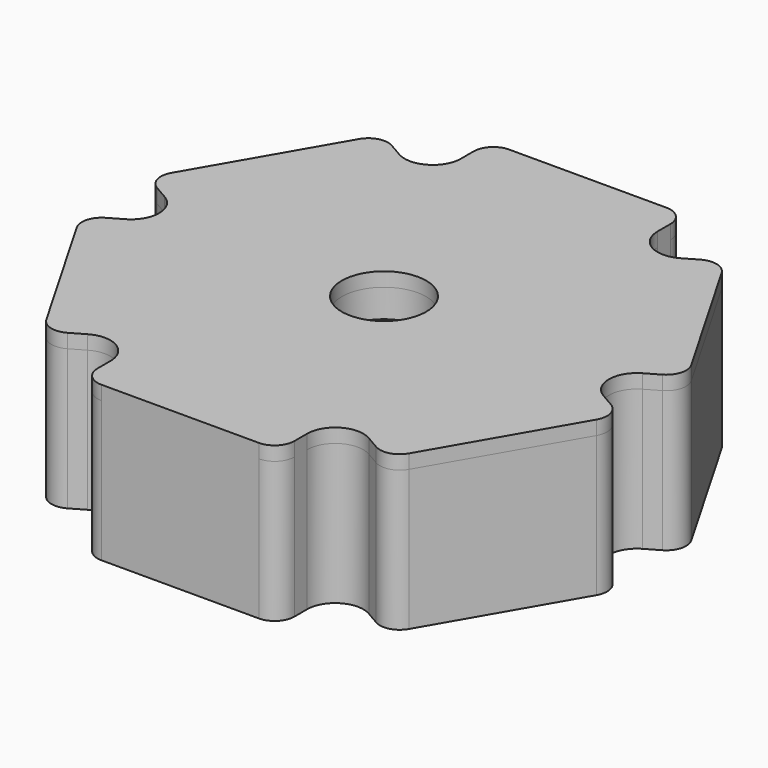
from build123d import *

# Parameters (mm, degrees)
PAD_DEPTH         = 5
POCKET_DEPTH      = 4
POCKET_FACE1_W    = 7
POCKET_FACE1_H    = 5
PAD001_DEPTH      = 3
PAD001_FACE6_W    = 7
PAD001_FACE6_H    = 5
PAD002_DEPTH      = 3
PAD002_FACE6_W    = 7
PAD002_FACE6_H    = 5
PAD003_DEPTH      = 3
PAD003_FACE1_W    = 7
PAD003_FACE1_H    = 5
PAD004_DEPTH      = 3
PAD004_FACE1_W    = 7
PAD004_FACE1_H    = 5
PAD005_DEPTH      = 3
PAD005_FACE1_W    = 7
PAD005_FACE1_H    = 5
PAD006_DEPTH      = 3
FILLET_R          = 1
FILLET001_R       = 0.7
SKETCH002_R       = 1.5
POCKET001_DEPTH   = 5
POCKET001_FACE5_R = 1.5
PAD007_DEPTH      = 0.5


with BuildPart() as part:
    # Sketch → Pad (new body)
    with BuildSketch(Plane.XY):
        Polygon((7, 0), (3.5, 6.0621778265), (-3.5, 6.0621778265), (-7, 0), (-3.5, -6.0621778265), (3.5, -6.0621778265), align=None)
    extrude(amount=PAD_DEPTH)

    # Sketch001 (on Face7 of Pad) → Pocket (cut)
    with BuildSketch(Plane(origin=(0, 0, 0), x_dir=(1, 0, 0), z_dir=(0, 0, -1))):
        Polygon((3.35, 0), (1.675, 2.9011851027), (-1.675, 2.9011851027), (-3.35, 0), (-1.675, -2.9011851027), (1.675, -2.9011851027), align=None)
    extrude(amount=-POCKET_DEPTH, mode=Mode.SUBTRACT)

    # Pocket Face1 → Pad001 (add)
    with BuildSketch(Plane(origin=(5.25, 3.0310889132, 2.5), x_dir=(0.5, -0.8660254038, 0), z_dir=(0.8660254038, 0.5, 0))):
        Rectangle(POCKET_FACE1_W, POCKET_FACE1_H)
    extrude(amount=PAD001_DEPTH)

    # Pad001 Face6 → Pad002 (add)
    with BuildSketch(Plane(origin=(-5.25, -3.0310889132, 2.5), x_dir=(-0.5, 0.8660254038, 0), z_dir=(-0.8660254038, -0.5, 0))):
        Rectangle(PAD001_FACE6_W, PAD001_FACE6_H)
    extrude(amount=PAD002_DEPTH)

    # Pad002 Face6 → Pad003 (add)
    with BuildSketch(Plane(origin=(-5.25, 3.0310889132, 2.5), x_dir=(0.5, 0.8660254038, 0), z_dir=(-0.8660254038, 0.5, 0))):
        Rectangle(PAD002_FACE6_W, PAD002_FACE6_H)
    extrude(amount=PAD003_DEPTH)

    # Pad003 Face1 → Pad004 (add)
    with BuildSketch(Plane(origin=(0, 6.0621778265, 2.5), x_dir=(1, 0, 0), z_dir=(0, 1, 0))):
        Rectangle(PAD003_FACE1_W, PAD003_FACE1_H)
    extrude(amount=PAD004_DEPTH)

    # Pad004 Face1 → Pad005 (add)
    with BuildSketch(Plane(origin=(5.25, -3.0310889132, 2.5), x_dir=(-0.5, -0.8660254038, 0), z_dir=(0.8660254038, -0.5, 0))):
        Rectangle(PAD004_FACE1_W, PAD004_FACE1_H)
    extrude(amount=PAD005_DEPTH)

    # Pad005 Face1 → Pad006 (add)
    with BuildSketch(Plane(origin=(0, -6.0621778265, 2.5), x_dir=(-1, 0, 0), z_dir=(0, -1, 0))):
        Rectangle(PAD005_FACE1_W, PAD005_FACE1_H)
    extrude(amount=PAD006_DEPTH)

    # Fillet
    fillet_edges = [part.edges().sort_by_distance(p)[0] for p in [
        (3.5, -6.062178, 2.5),
        (-3.5, -6.062178, 2.5),
        (-7, 0, 2.5),
        (-3.5, 6.062178, 2.5),
        (3.5, 6.062178, 2.5),
        (7, 0, 2.5),
    ]]
    fillet(fillet_edges, radius=FILLET_R)

    # Fillet001
    fillet001_edges = [part.edges().sort_by_distance(p)[0] for p in [
        (-6.098076, -7.562178, 2.5),
        (-9.598076, -1.5, 2.5),
        (-9.598076, 1.5, 2.5),
        (-6.098076, 7.562178, 2.5),
        (-3.5, 9.062178, 2.5),
        (3.5, 9.062178, 2.5),
        (6.098076, 7.562178, 2.5),
        (9.598076, 1.5, 2.5),
        (9.598076, -1.5, 2.5),
        (6.098076, -7.562178, 2.5),
        (3.5, -9.062178, 2.5),
        (-3.5, -9.062178, 2.5),
    ]]
    fillet(fillet001_edges, radius=FILLET001_R)

    # Sketch002 (on Face45 of Fillet001) → Pocket001 (cut)
    with BuildSketch(Plane(origin=(0, 0, 4), x_dir=(1, 0, 0), z_dir=(0, 0, -1))):
        Circle(SKETCH002_R)
    extrude(amount=-POCKET001_DEPTH, mode=Mode.SUBTRACT)

    # Pocket001 Face5 → Pad007 (add)
    with BuildSketch(Plane(origin=(0, 0, 5), x_dir=(0, 1, 0), z_dir=(0, 0, 1))):
        with BuildLine():
            Line((6.9282032303, 5), (7.2121778265, 5.4918584287))
            ThreePointArc((7.2121778265, 5.4918584287), (7.2821081222, 6.0230317603), (6.9559600438, 6.4480762114))
            Line((6.9559600438, 6.4480762114), (2.1062177826, 9.2480762114))
            ThreePointArc((2.1062177826, 9.2480762114), (1.5750444511, 9.3180065071), (1.15, 8.9918584287))
            Line((1.15, 8.9918584287), (0.8660254038, 8.5))
            ThreePointArc((0.8660254038, 8.5), (0, 8), (-0.8660254038, 8.5))
            Line((-0.8660254038, 8.5), (-1.15, 8.9918584287))
            ThreePointArc((-1.15, 8.9918584287), (-1.5750444511, 9.3180065071), (-2.1062177826, 9.2480762114))
            Line((-2.1062177826, 9.2480762114), (-6.9559600438, 6.4480762114))
            ThreePointArc((-6.9559600438, 6.4480762114), (-7.2821081222, 6.0230317603), (-7.2121778265, 5.4918584287))
            Line((-7.2121778265, 5.4918584287), (-6.9282032303, 5))
            ThreePointArc((-6.9282032303, 5), (-6.9282032303, 4), (-7.7942286341, 3.5))
            Line((-7.7942286341, 3.5), (-8.3621778265, 3.5))
            ThreePointArc((-8.3621778265, 3.5), (-8.8571525733, 3.2949747468), (-9.0621778265, 2.8))
            Line((-9.0621778265, 2.8), (-9.0621778265, -2.8))
            ThreePointArc((-9.0621778265, -2.8), (-8.8571525733, -3.2949747468), (-8.3621778265, -3.5))
            Line((-8.3621778265, -3.5), (-7.7942286341, -3.5))
            ThreePointArc((-7.7942286341, -3.5), (-6.9282032303, -4), (-6.9282032303, -5))
            Line((-6.9282032303, -5), (-7.2121778265, -5.4918584287))
            ThreePointArc((-7.2121778265, -5.4918584287), (-7.2821081222, -6.0230317603), (-6.9559600438, -6.4480762114))
            Line((-6.9559600438, -6.4480762114), (-2.1062177826, -9.2480762114))
            ThreePointArc((-2.1062177826, -9.2480762114), (-1.5750444511, -9.3180065071), (-1.15, -8.9918584287))
            Line((-1.15, -8.9918584287), (-0.8660254038, -8.5))
            ThreePointArc((-0.8660254038, -8.5), (0, -8), (0.8660254038, -8.5))
            Line((0.8660254038, -8.5), (1.15, -8.9918584287))
            ThreePointArc((1.15, -8.9918584287), (1.5750444511, -9.3180065071), (2.1062177826, -9.2480762114))
            Line((2.1062177826, -9.2480762114), (6.9559600438, -6.4480762114))
            ThreePointArc((6.9559600438, -6.4480762114), (7.2821081222, -6.0230317603), (7.2121778265, -5.4918584287))
            Line((7.2121778265, -5.4918584287), (6.9282032303, -5))
            ThreePointArc((6.9282032303, -5), (6.9282032303, -4), (7.7942286341, -3.5))
            Line((7.7942286341, -3.5), (8.3621778265, -3.5))
            ThreePointArc((8.3621778265, -3.5), (8.8571525733, -3.2949747468), (9.0621778265, -2.8))
            Line((9.0621778265, -2.8), (9.0621778265, 2.8))
            ThreePointArc((9.0621778265, 2.8), (8.8571525733, 3.2949747468), (8.3621778265, 3.5))
            Line((8.3621778265, 3.5), (7.7942286341, 3.5))
            ThreePointArc((7.7942286341, 3.5), (6.9282032303, 4), (6.9282032303, 5))
        make_face()
        Circle(POCKET001_FACE5_R, mode=Mode.SUBTRACT)
    extrude(amount=PAD007_DEPTH)


solid = part.part
